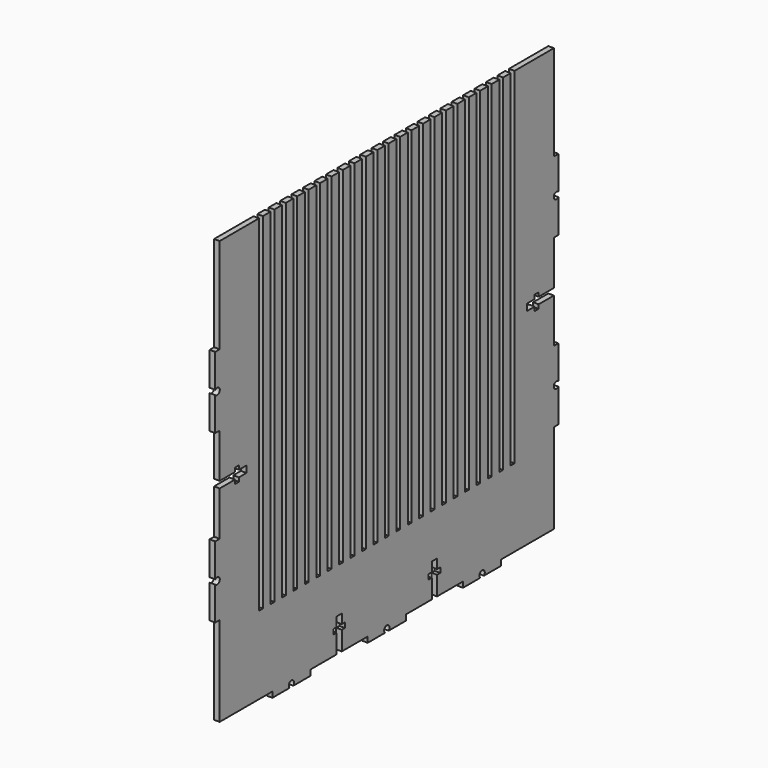
from build123d import *

# Parameters (mm, degrees)
F1_DEPTH = 2.9718


with BuildPart() as f1:
    # F0 (on Right) → F1 (new body)
    with BuildSketch(Plane.YZ):
        with BuildLine():
            Line((76.2, -111.3282), (111.3282, -111.3282))
            Line((111.3282, -111.3282), (111.3282, -63.5))
            Line((111.3282, -63.5), (114.3, -63.5))
            Line((114.3, -63.5), (114.3, -45.6943407893))
            ThreePointArc((114.3, -45.6943407893), (111.252, -44.45), (114.3, -43.2056592107))
            Line((114.3, -43.2056592107), (114.3, -25.4))
            Line((114.3, -25.4), (111.3282, -25.4))
            Line((111.3282, -25.4), (111.3282, -1.7653))
            Line((111.3282, -1.7653), (101.1682, -1.7653))
            Line((101.1682, -1.7653), (101.1682, -3.8862))
            Line((101.1682, -3.8862), (98.5266, -3.8862))
            Line((98.5266, -3.8862), (98.5266, -1.7653))
            Line((98.5266, -1.7653), (93.4974, -1.7653))
            Line((93.4974, -1.7653), (93.4974, 1.7653))
            Line((93.4974, 1.7653), (98.5266, 1.7653))
            Line((98.5266, 1.7653), (98.5266, 3.8862))
            Line((98.5266, 3.8862), (101.1682, 3.8862))
            Line((101.1682, 3.8862), (101.1682, 1.7653))
            Line((101.1682, 1.7653), (111.3282, 1.7653))
            Line((111.3282, 1.7653), (111.3282, 25.4))
            Line((111.3282, 25.4), (114.3, 25.4))
            Line((114.3, 25.4), (114.3, 43.2056592107))
            ThreePointArc((114.3, 43.2056592107), (111.252, 44.45), (114.3, 45.6943407893))
            Line((114.3, 45.6943407893), (114.3, 63.5))
            Line((114.3, 63.5), (111.3282, 63.5))
            Line((111.3282, 63.5), (111.3282, 114.3))
            Line((111.3282, 114.3), (85.09, 114.3))
            Line((85.09, 114.3), (85.09, -69.85))
            Line((85.09, -69.85), (82.55, -69.85))
            Line((82.55, -69.85), (82.55, 114.3))
            Line((82.55, 114.3), (77.47, 114.3))
            Line((77.47, 114.3), (77.47, -69.85))
            Line((77.47, -69.85), (74.93, -69.85))
            Line((74.93, -69.85), (74.93, 114.3))
            Line((74.93, 114.3), (69.85, 114.3))
            Line((69.85, 114.3), (69.85, -69.85))
            Line((69.85, -69.85), (67.31, -69.85))
            Line((67.31, -69.85), (67.31, 114.3))
            Line((67.31, 114.3), (62.23, 114.3))
            Line((62.23, 114.3), (62.23, -69.85))
            Line((62.23, -69.85), (59.69, -69.85))
            Line((59.69, -69.85), (59.69, 114.3))
            Line((59.69, 114.3), (54.61, 114.3))
            Line((54.61, 114.3), (54.61, -69.85))
            Line((54.61, -69.85), (52.07, -69.85))
            Line((52.07, -69.85), (52.07, 114.3))
            Line((52.07, 114.3), (46.99, 114.3))
            Line((46.99, 114.3), (46.99, -69.85))
            Line((46.99, -69.85), (44.45, -69.85))
            Line((44.45, -69.85), (44.45, 114.3))
            Line((44.45, 114.3), (39.37, 114.3))
            Line((39.37, 114.3), (39.37, -69.85))
            Line((39.37, -69.85), (36.83, -69.85))
            Line((36.83, -69.85), (36.83, 114.3))
            Line((36.83, 114.3), (31.75, 114.3))
            Line((31.75, 114.3), (31.75, -69.85))
            Line((31.75, -69.85), (29.21, -69.85))
            Line((29.21, -69.85), (29.21, 114.3))
            Line((29.21, 114.3), (24.13, 114.3))
            Line((24.13, 114.3), (24.13, -69.85))
            Line((24.13, -69.85), (21.59, -69.85))
            Line((21.59, -69.85), (21.59, 114.3))
            Line((21.59, 114.3), (16.51, 114.3))
            Line((16.51, 114.3), (16.51, -69.85))
            Line((16.51, -69.85), (13.97, -69.85))
            Line((13.97, -69.85), (13.97, 114.3))
            Line((13.97, 114.3), (8.89, 114.3))
            Line((8.89, 114.3), (8.89, -69.85))
            Line((8.89, -69.85), (6.35, -69.85))
            Line((6.35, -69.85), (6.35, 114.3))
            Line((6.35, 114.3), (1.27, 114.3))
            Line((1.27, 114.3), (1.27, -69.85))
            Line((1.27, -69.85), (-1.27, -69.85))
            Line((-1.27, -69.85), (-1.27, 114.3))
            Line((-1.27, 114.3), (-6.35, 114.3))
            Line((-6.35, 114.3), (-6.35, -69.85))
            Line((-6.35, -69.85), (-8.89, -69.85))
            Line((-8.89, -69.85), (-8.89, 114.3))
            Line((-8.89, 114.3), (-13.97, 114.3))
            Line((-13.97, 114.3), (-13.97, -69.85))
            Line((-13.97, -69.85), (-16.51, -69.85))
            Line((-16.51, -69.85), (-16.51, 114.3))
            Line((-16.51, 114.3), (-21.59, 114.3))
            Line((-21.59, 114.3), (-21.59, -69.85))
            Line((-21.59, -69.85), (-24.13, -69.85))
            Line((-24.13, -69.85), (-24.13, 114.3))
            Line((-24.13, 114.3), (-29.21, 114.3))
            Line((-29.21, 114.3), (-29.21, -69.85))
            Line((-29.21, -69.85), (-31.75, -69.85))
            Line((-31.75, -69.85), (-31.75, 114.3))
            Line((-31.75, 114.3), (-36.83, 114.3))
            Line((-36.83, 114.3), (-36.83, -69.85))
            Line((-36.83, -69.85), (-39.37, -69.85))
            Line((-39.37, -69.85), (-39.37, 114.3))
            Line((-39.37, 114.3), (-44.45, 114.3))
            Line((-44.45, 114.3), (-44.45, -69.85))
            Line((-44.45, -69.85), (-46.99, -69.85))
            Line((-46.99, -69.85), (-46.99, 114.3))
            Line((-46.99, 114.3), (-52.07, 114.3))
            Line((-52.07, 114.3), (-52.07, -69.85))
            Line((-52.07, -69.85), (-54.61, -69.85))
            Line((-54.61, -69.85), (-54.61, 114.3))
            Line((-54.61, 114.3), (-59.69, 114.3))
            Line((-59.69, 114.3), (-59.69, -69.85))
            Line((-59.69, -69.85), (-62.23, -69.85))
            Line((-62.23, -69.85), (-62.23, 114.3))
            Line((-62.23, 114.3), (-67.31, 114.3))
            Line((-67.31, 114.3), (-67.31, -69.85))
            Line((-67.31, -69.85), (-69.85, -69.85))
            Line((-69.85, -69.85), (-69.85, 114.3))
            Line((-69.85, 114.3), (-74.93, 114.3))
            Line((-74.93, 114.3), (-74.93, -69.85))
            Line((-74.93, -69.85), (-77.47, -69.85))
            Line((-77.47, -69.85), (-77.47, 114.3))
            Line((-77.47, 114.3), (-82.55, 114.3))
            Line((-82.55, 114.3), (-82.55, -69.85))
            Line((-82.55, -69.85), (-85.09, -69.85))
            Line((-85.09, -69.85), (-85.09, 114.3))
            Line((-85.09, 114.3), (-111.3282, 114.3))
            Line((-111.3282, 114.3), (-111.3282, 63.5))
            Line((-111.3282, 63.5), (-114.3, 63.5))
            Line((-114.3, 63.5), (-114.3, 45.6943407893))
            ThreePointArc((-114.3, 45.6943407893), (-111.252, 44.45), (-114.3, 43.2056592107))
            Line((-114.3, 43.2056592107), (-114.3, 25.4))
            Line((-114.3, 25.4), (-111.3282, 25.4))
            Line((-111.3282, 25.4), (-111.3282, 1.7653))
            Line((-111.3282, 1.7653), (-101.1682, 1.7653))
            Line((-101.1682, 1.7653), (-101.1682, 3.8862))
            Line((-101.1682, 3.8862), (-98.5266, 3.8862))
            Line((-98.5266, 3.8862), (-98.5266, 1.7653))
            Line((-98.5266, 1.7653), (-93.4974, 1.7653))
            Line((-93.4974, 1.7653), (-93.4974, -1.7653))
            Line((-93.4974, -1.7653), (-98.5266, -1.7653))
            Line((-98.5266, -1.7653), (-98.5266, -3.8862))
            Line((-98.5266, -3.8862), (-101.1682, -3.8862))
            Line((-101.1682, -3.8862), (-101.1682, -1.7653))
            Line((-101.1682, -1.7653), (-111.3282, -1.7653))
            Line((-111.3282, -1.7653), (-111.3282, -25.4))
            Line((-111.3282, -25.4), (-114.3, -25.4))
            Line((-114.3, -25.4), (-114.3, -43.2056592107))
            ThreePointArc((-114.3, -43.2056592107), (-111.252, -44.45), (-114.3, -45.6943407893))
            Line((-114.3, -45.6943407893), (-114.3, -63.5))
            Line((-114.3, -63.5), (-111.3282, -63.5))
            Line((-111.3282, -63.5), (-111.3282, -111.3282))
            Line((-111.3282, -111.3282), (-76.2, -111.3282))
            Line((-76.2, -111.3282), (-76.2, -114.3))
            Line((-76.2, -114.3), (-64.7443407893, -114.3))
            ThreePointArc((-64.7443407893, -114.3), (-63.5, -111.252), (-62.2556592107, -114.3))
            Line((-62.2556592107, -114.3), (-50.8, -114.3))
            Line((-50.8, -114.3), (-50.8, -111.3282))
            Line((-50.8, -111.3282), (-33.5153, -111.3282))
            Line((-33.5153, -111.3282), (-33.5153, -101.1682))
            Line((-33.5153, -101.1682), (-35.6362, -101.1682))
            Line((-35.6362, -101.1682), (-35.6362, -98.5266))
            Line((-35.6362, -98.5266), (-33.5153, -98.5266))
            Line((-33.5153, -98.5266), (-33.5153, -93.4974))
            Line((-33.5153, -93.4974), (-29.9847, -93.4974))
            Line((-29.9847, -93.4974), (-29.9847, -98.5266))
            Line((-29.9847, -98.5266), (-27.8638, -98.5266))
            Line((-27.8638, -98.5266), (-27.8638, -101.1682))
            Line((-27.8638, -101.1682), (-29.9847, -101.1682))
            Line((-29.9847, -101.1682), (-29.9847, -111.3282))
            Line((-29.9847, -111.3282), (-12.7, -111.3282))
            Line((-12.7, -111.3282), (-12.7, -114.3))
            Line((-12.7, -114.3), (-1.2443407893, -114.3))
            ThreePointArc((-1.2443407893, -114.3), (0, -111.252), (1.2443407893, -114.3))
            Line((1.2443407893, -114.3), (12.7, -114.3))
            Line((12.7, -114.3), (12.7, -111.3282))
            Line((12.7, -111.3282), (29.9847, -111.3282))
            Line((29.9847, -111.3282), (29.9847, -101.1682))
            Line((29.9847, -101.1682), (27.8638, -101.1682))
            Line((27.8638, -101.1682), (27.8638, -98.5266))
            Line((27.8638, -98.5266), (29.9847, -98.5266))
            Line((29.9847, -98.5266), (29.9847, -93.4974))
            Line((29.9847, -93.4974), (33.5153, -93.4974))
            Line((33.5153, -93.4974), (33.5153, -98.5266))
            Line((33.5153, -98.5266), (35.6362, -98.5266))
            Line((35.6362, -98.5266), (35.6362, -101.1682))
            Line((35.6362, -101.1682), (33.5153, -101.1682))
            Line((33.5153, -101.1682), (33.5153, -111.3282))
            Line((33.5153, -111.3282), (50.8, -111.3282))
            Line((50.8, -111.3282), (50.8, -114.3))
            Line((50.8, -114.3), (62.2556592107, -114.3))
            ThreePointArc((62.2556592107, -114.3), (63.5, -111.252), (64.7443407893, -114.3))
            Line((64.7443407893, -114.3), (76.2, -114.3))
            Line((76.2, -114.3), (76.2, -111.3282))
        make_face()
    extrude(amount=F1_DEPTH)


solid = f1.part
